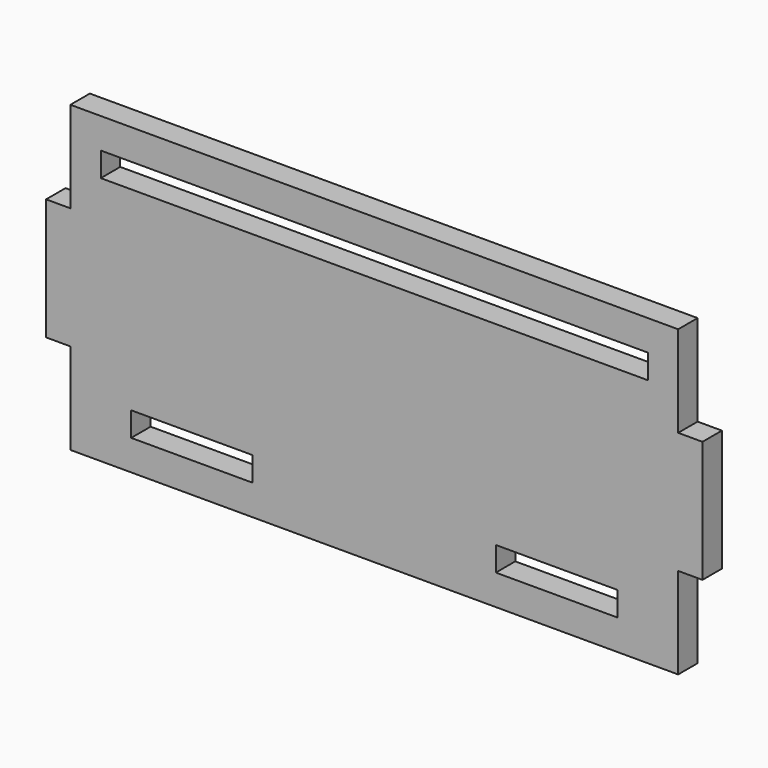
from build123d import *

# Parameters (mm, degrees)
F0_W     = 20
F0_H     = 4
F0_W_2   = 90
F1_DEPTH = 4


with BuildPart() as f1:
    # F0 (on Front) → F1 (new body)
    with BuildSketch(Plane.XZ):
        Polygon((50, 10), (50, 25), (-50, 25), (-50, 10), (-54, 10), (-54, -10), (-50, -10), (-50, -25), (50, -25), (50, -10), (54, -10), (54, 10), align=None)
        with Locations((-30, -18)):
            Rectangle(F0_W, F0_H, mode=Mode.SUBTRACT)
        with Locations((30, -18)):
            Rectangle(F0_W, F0_H, mode=Mode.SUBTRACT)
        with Locations((0, 18)):
            Rectangle(F0_W_2, F0_H, mode=Mode.SUBTRACT)
    extrude(amount=F1_DEPTH)


solid = f1.part
